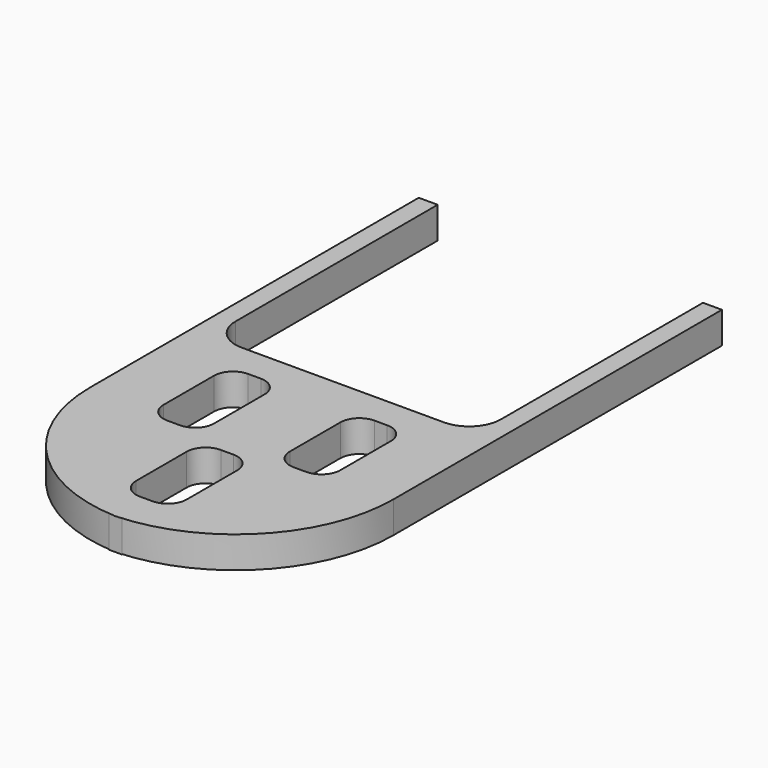
from build123d import *

# Parameters (mm, degrees)
F1_DEPTH = 5


with BuildPart() as f1:
    # F0 (on Top) → F1 (new body)
    with BuildSketch(Plane.XY):
        with BuildLine():
            ThreePointArc((1, -45), (0.4999, -44.994997), (0, -44.979992))
            ThreePointArc((0, -44.979992), (-0.4999, -44.994997), (-1, -45))
            Line((-1, -45), (1, -45))
        make_face()
        with BuildLine():
            Line((-21, 45), (-24, 45))
            Line((-24, 45), (-24, -20))
            ThreePointArc((-24, -20), (-17.027756, -37.320508), (0, -44.979992))
            ThreePointArc((0, -44.979992), (17.027756, -37.320508), (24, -20))
            Line((24, -20), (24, 45))
            Line((24, 45), (21, 45))
            Line((21, 45), (21, 5))
            ThreePointArc((21, 5), (19.535534, 1.464466), (16, 0))
            Line((16, 0), (-16, 0))
            ThreePointArc((-16, 0), (-19.535534, 1.464466), (-21, 5))
            Line((-21, 5), (-21, 45))
        make_face()
        with BuildLine():
            ThreePointArc((-14, -8), (-13.12132, -5.87868), (-11, -5))
            Line((-11, -5), (-9, -5))
            ThreePointArc((-9, -5), (-6.87868, -5.87868), (-6, -8))
            Line((-6, -8), (-6, -18))
            ThreePointArc((-6, -18), (-6.87868, -20.12132), (-9, -21))
            Line((-9, -21), (-11, -21))
            ThreePointArc((-11, -21), (-13.12132, -20.12132), (-14, -18))
            Line((-14, -18), (-14, -8))
        make_face(mode=Mode.SUBTRACT)
        with BuildLine():
            ThreePointArc((-3.932353, -26), (-3.053673, -23.87868), (-0.932353, -23))
            Line((-0.932353, -23), (1.067647, -23))
            ThreePointArc((1.067647, -23), (3.188967, -23.87868), (4.067647, -26))
            Line((4.067647, -26), (4.067647, -36))
            ThreePointArc((4.067647, -36), (3.188967, -38.12132), (1.067647, -39))
            Line((1.067647, -39), (-0.932353, -39))
            ThreePointArc((-0.932353, -39), (-3.053673, -38.12132), (-3.932353, -36))
            Line((-3.932353, -36), (-3.932353, -26))
        make_face(mode=Mode.SUBTRACT)
        with BuildLine():
            Line((6, -18), (6, -8))
            ThreePointArc((6, -8), (6.87868, -5.87868), (9, -5))
            Line((9, -5), (11, -5))
            ThreePointArc((11, -5), (13.12132, -5.87868), (14, -8))
            Line((14, -8), (14, -18))
            ThreePointArc((14, -18), (13.12132, -20.12132), (11, -21))
            Line((11, -21), (9, -21))
            ThreePointArc((9, -21), (6.87868, -20.12132), (6, -18))
        make_face(mode=Mode.SUBTRACT)
    extrude(amount=F1_DEPTH)


solid = f1.part
